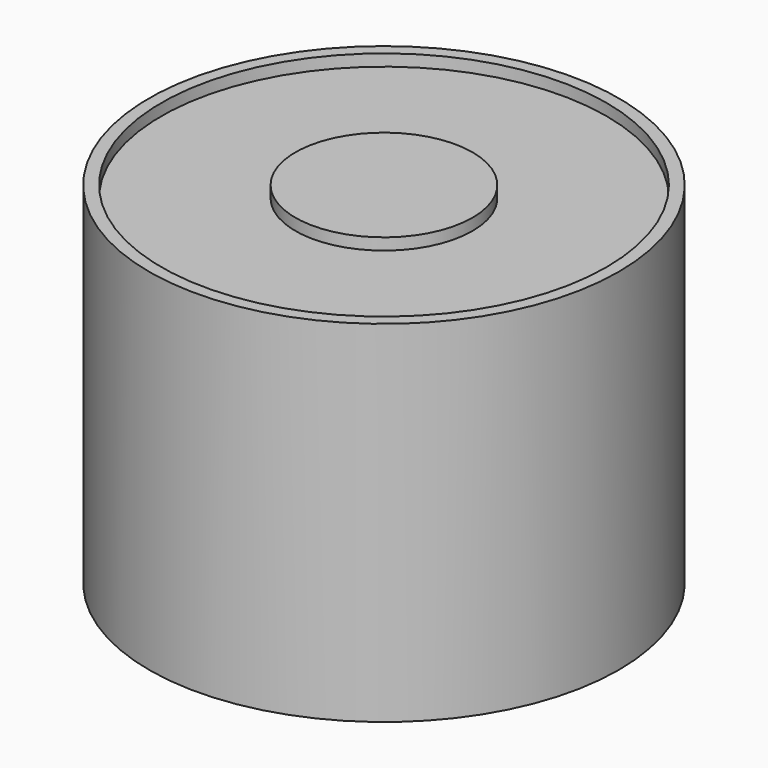
from build123d import *

# Parameters (mm, degrees)
SKETCH_R     = 10.052147
PAD_DEPTH    = 15
SKETCH002_R  = 9.523498
POCKET_DEPTH = 0.5
SKETCH001_R  = 3.79058
PAD001_DEPTH = 15


with BuildPart() as obj1:
    # Sketch → Pad (new body)
    with BuildSketch(Plane.XY):
        Circle(SKETCH_R)
    extrude(amount=PAD_DEPTH)

    # Sketch002 (on Face3 of Pad) → Pocket (cut)
    with BuildSketch(Plane.XY.offset(15)):
        Circle(SKETCH002_R)
    extrude(amount=-POCKET_DEPTH, mode=Mode.SUBTRACT)


with BuildPart() as obj2:
    # Sketch001 → Pad001 (new body)
    with BuildSketch(Plane.XY):
        Circle(SKETCH001_R)
    extrude(amount=PAD001_DEPTH)


solid = Compound([obj1.part, obj2.part])
